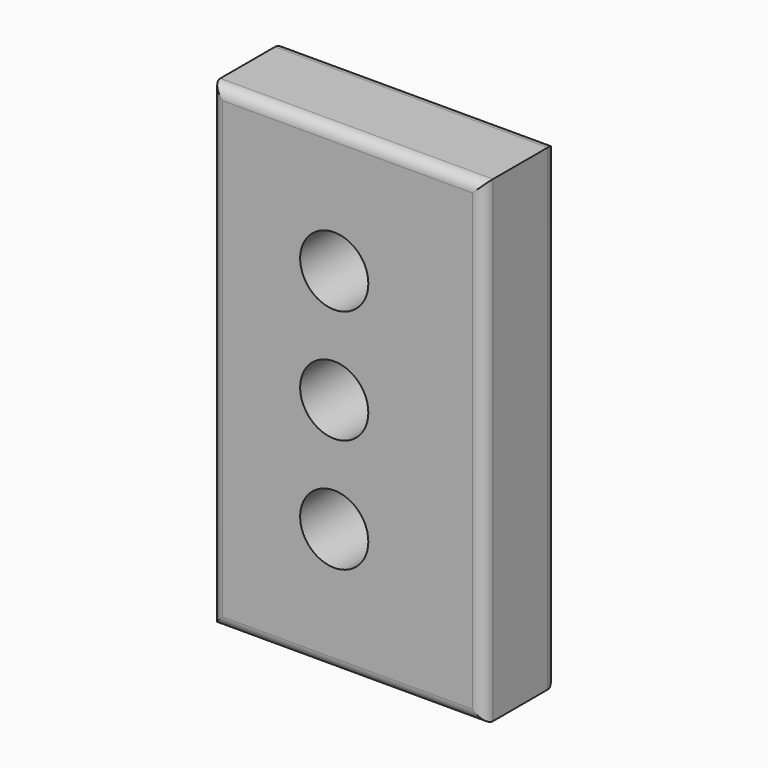
from build123d import *

# Parameters (mm, degrees)
F0_W     = 60
F0_H     = 105
F0_R     = 7.5
F1_DEPTH = 20
F2_R     = 2.5
F3_R     = 2.5


with BuildPart() as f1:
    # F0 (on Front) → F1 (new body)
    with BuildSketch(Plane.XZ):
        with Locations((2.949677, 25)):
            Rectangle(F0_W, F0_H)
        Circle(F0_R, mode=Mode.SUBTRACT)
        with Locations((0, 25)):
            Circle(F0_R, mode=Mode.SUBTRACT)
        with Locations((0, 50)):
            Circle(F0_R, mode=Mode.SUBTRACT)
    extrude(amount=F1_DEPTH)

    # F2
    f2_edges = [f1.edges().sort_by_distance(p)[0] for p in [
        (-27.050323, -20, 25),
        (2.949677, -20, -27.5),
        (32.949677, -20, 25),
        (2.949677, -20, 77.5),
    ]]
    fillet(f2_edges, radius=F2_R)

    # F3
    f3_edges = [f1.edges().sort_by_distance(p)[0] for p in [
        (32.949677, 0, 25),
        (2.949677, 0, -27.5),
        (-27.050323, 0, 25),
        (2.949677, 0, 77.5),
    ]]
    fillet(f3_edges, radius=F3_R)


solid = f1.part
